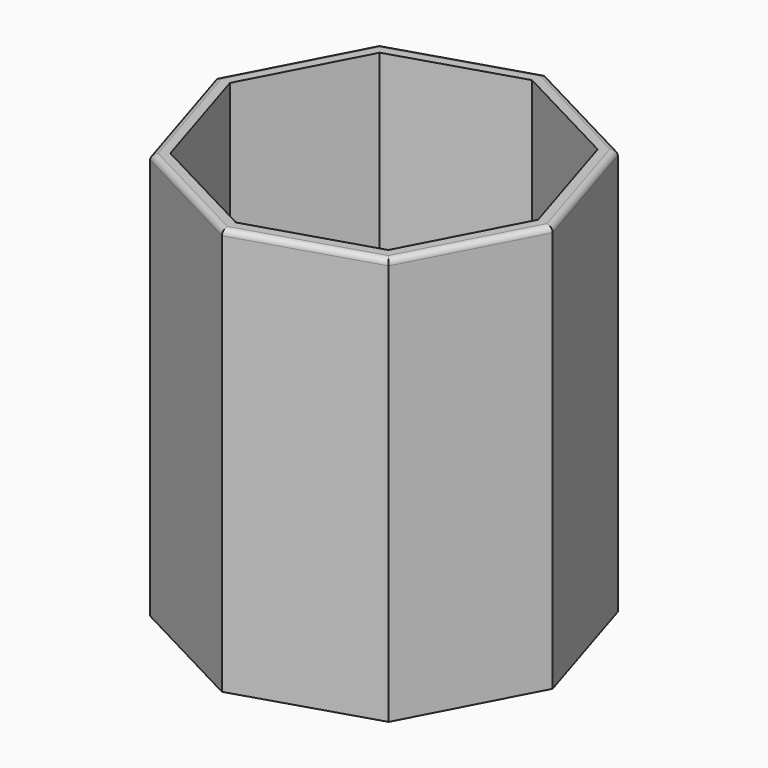
from build123d import *

# Parameters (mm, degrees)
F1_DEPTH = 70
F3_DEPTH = 68
F4_R     = 1


with BuildPart() as f1:
    # F0 (on Top) → F1 (new body)
    with BuildSketch(Plane.XY):
        Polygon((20.09286, -24.115758), (31.260213, -2.844618), (24.115758, 20.09286), (2.844618, 31.260213), (-20.09286, 24.115758), (-31.260213, 2.844618), (-24.115758, -20.09286), (-2.844618, -31.260213), align=None)
    extrude(amount=F1_DEPTH)

    # F2 (on face) → F3 (cut)
    with BuildSketch(Plane.XY.offset(70)):
        Polygon((18.360717, -22.036813), (28.565367, -2.599392), (22.036813, 18.360717), (2.599392, 28.565367), (-18.360717, 22.036813), (-28.565367, 2.599392), (-22.036813, -18.360717), (-2.599392, -28.565367), align=None)
    extrude(amount=-F3_DEPTH, mode=Mode.SUBTRACT)

    # F4
    f4_edges = [f1.edges().sort_by_distance(p)[0] for p in [
        (25.676537, -13.480188, 70),
        (27.687985, 8.624121, 70),
        (13.480188, 25.676537, 70),
        (-8.624121, 27.687985, 70),
        (-25.676537, 13.480188, 70),
        (-27.687985, -8.624121, 70),
        (-13.480188, -25.676537, 70),
        (8.624121, -27.687985, 70),
    ]]
    fillet(f4_edges, radius=F4_R)


solid = f1.part
